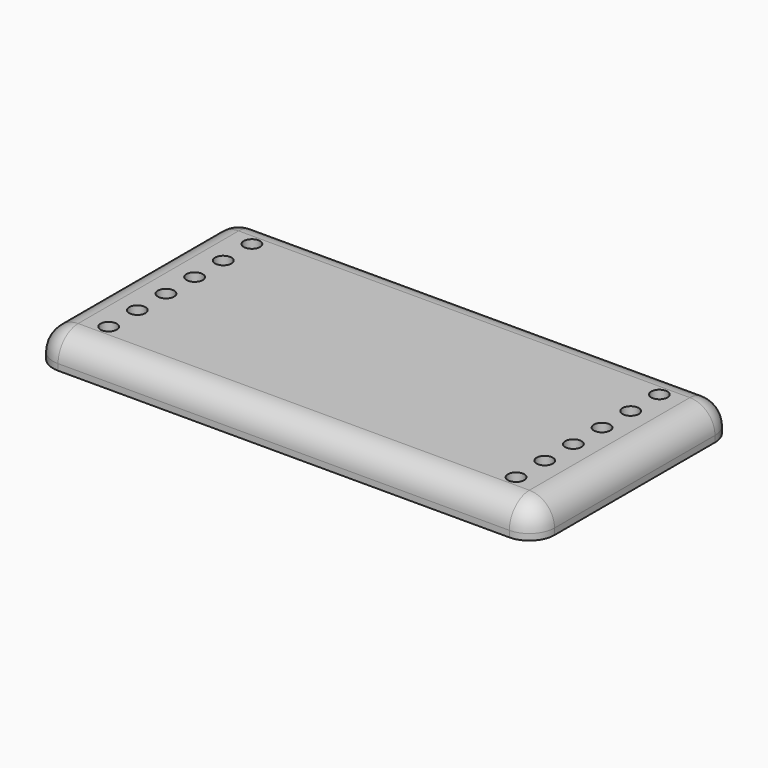
from build123d import *

# Parameters (mm, degrees)
F0_W     = 101.6
F0_H     = 50.8
F1_DEPTH = 6.35
F2_R     = 1.65
F3_DEPTH = 25.4
F4_R     = 5.08


with BuildPart() as f1:
    # F0 (on Top) → F1 (new body)
    with BuildSketch(Plane.XY):
        Rectangle(F0_W, F0_H)
    extrude(amount=F1_DEPTH)

    # F2 (on face) → F3 (cut)
    with BuildSketch(Plane.XY.offset(6.35)):
        with Locations((-41.275, 10.885714)):
            Circle(F2_R)
        with Locations((-41.275, 3.628571)):
            Circle(F2_R)
        with Locations((-41.275, -3.628571)):
            Circle(F2_R)
        with Locations((-41.275, -10.885714)):
            Circle(F2_R)
        with Locations((-41.275, -18.142857)):
            Circle(F2_R)
        with Locations((-41.275, 18.142857)):
            Circle(F2_R)
        with Locations((41.275, 18.142857)):
            Circle(F2_R)
        with Locations((41.275, 10.885714)):
            Circle(F2_R)
        with Locations((41.275, 3.628571)):
            Circle(F2_R)
        with Locations((41.275, -3.628571)):
            Circle(F2_R)
        with Locations((41.275, -10.885714)):
            Circle(F2_R)
        with Locations((41.275, -18.142857)):
            Circle(F2_R)
    extrude(amount=-F3_DEPTH, mode=Mode.SUBTRACT)

    # F4
    f4_edges = [f1.edges().sort_by_distance(p)[0] for p in [
        (-50.8, 25.4, 3.175),
        (-50.8, -25.4, 3.175),
        (50.8, -25.4, 3.175),
        (50.8, 25.4, 3.175),
        (50.8, 0, 6.35),
        (0, 25.4, 6.35),
        (-50.8, 0, 6.35),
        (0, -25.4, 6.35),
    ]]
    fillet(f4_edges, radius=F4_R)


solid = f1.part
